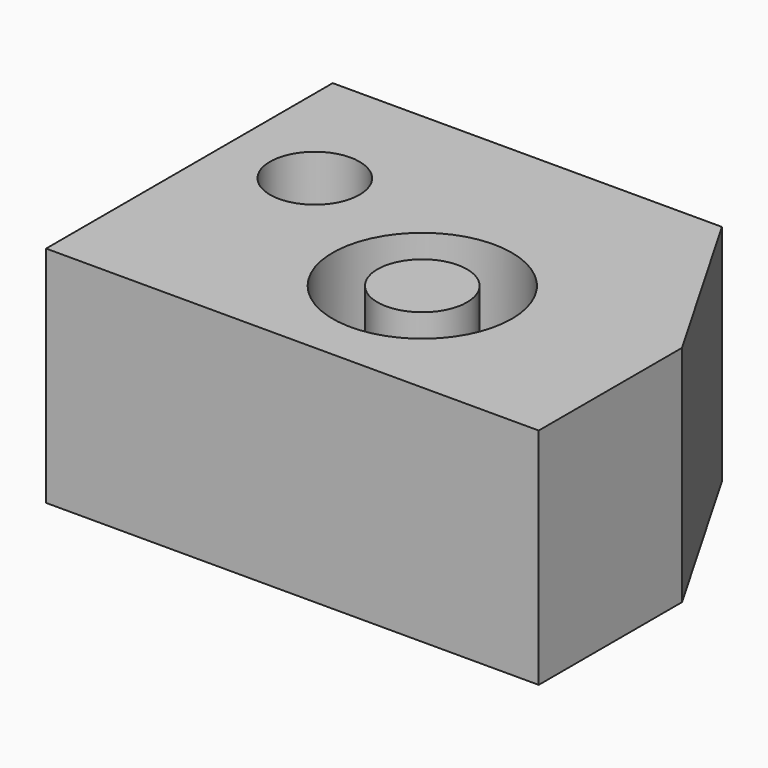
from build123d import *

# Parameters (mm, degrees)
F0_R     = 10
F0_R_2   = 5
F1_DEPTH = 25


with BuildPart() as f1:
    # F0 (on Top) → F1 (new body)
    with BuildSketch(Plane.XY):
        Polygon((-37.61966, 3.965051), (-37.61966, -36.034949), (17.38034, -36.034949), (17.38034, -16.034949), (5.833334, 3.965051), align=None)
        with Locations((-7.61966, -21.034949)):
            Circle(F0_R, mode=Mode.SUBTRACT)
        with Locations((-27.61966, -11.034949)):
            Circle(F0_R_2, mode=Mode.SUBTRACT)
        with Locations((-7.61966, -21.034949)):
            Circle(F0_R_2)
    extrude(amount=F1_DEPTH)


solid = f1.part
